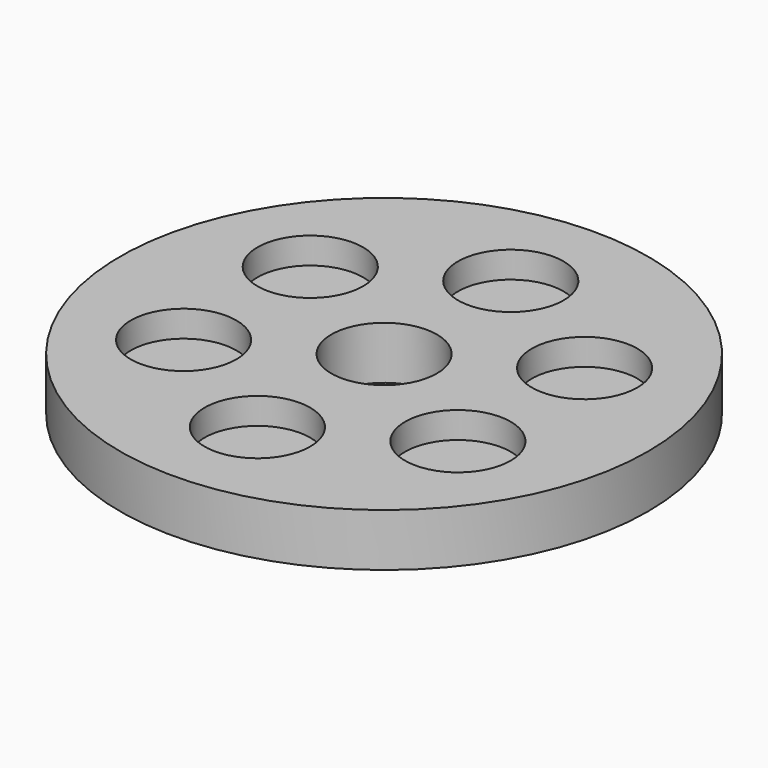
from build123d import *

# Parameters (mm, degrees)
F0_R     = 5
F1_DEPTH = 1
F2_R     = 1
F3_DEPTH = 0.5
F4_R     = 1
F5_DEPTH = 1


with BuildPart() as f1:
    # F0 (on Top) → F1 (new body)
    with BuildSketch(Plane.XY):
        Circle(F0_R)
    extrude(amount=F1_DEPTH)

    # F2 (on face) → F3 (cut)
    with BuildSketch(Plane.XY.offset(1)):
        with Locations((0, 3)):
            Circle(F2_R)
        with Locations((-2.598076, 1.5)):
            Circle(F2_R)
        with Locations((-2.598076, -1.5)):
            Circle(F2_R)
        with Locations((0, -3)):
            Circle(F2_R)
        with Locations((2.598076, -1.5)):
            Circle(F2_R)
        with Locations((2.598076, 1.5)):
            Circle(F2_R)
    extrude(amount=-F3_DEPTH, mode=Mode.SUBTRACT)

    # F4 (on face) → F5 (cut)
    with BuildSketch(Plane.XY.offset(1)):
        Circle(F4_R)
    extrude(amount=-F5_DEPTH, mode=Mode.SUBTRACT)


solid = f1.part
